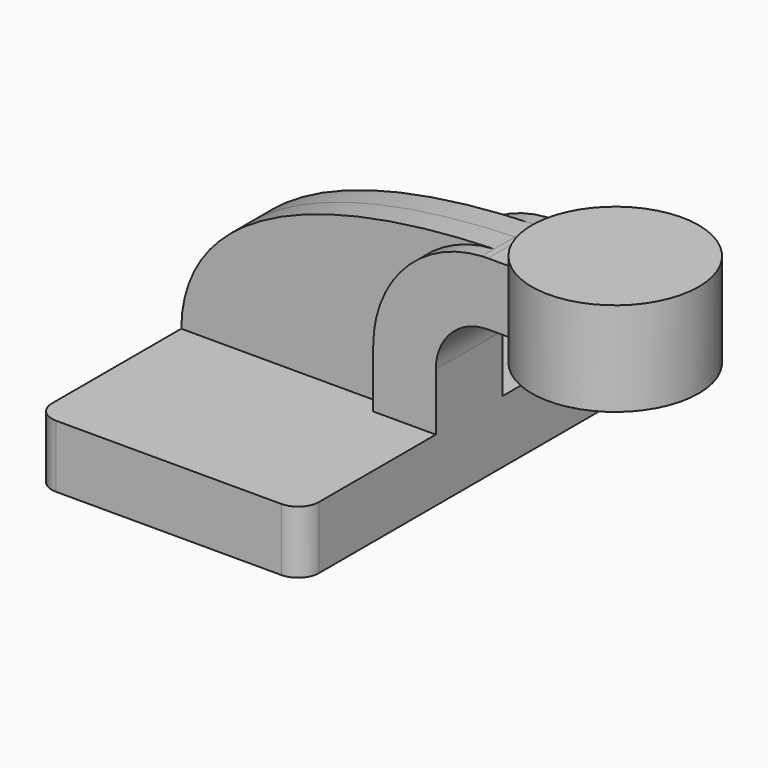
from build123d import *

# Parameters (mm, degrees)
F1_DEPTH = 63.5
F0_W     = 25.4
F0_H     = 19.05
F2_DEPTH = 12.7
F3_DEPTH = 7.9375
F5_R     = 6.35
F6_R     = 6.35
F7_R     = 6.35


with BuildPart() as f1:
    # F0 (on Front) → F1 (new body, symmetric)
    with BuildSketch(Plane.XZ):
        Polygon((40.64, -9.525), (40.64, 9.525), (21.59, 9.525), (-40.64, 9.525), (-40.64, -9.525), align=None)
    extrude(amount=F1_DEPTH, both=True)

    # F0 (on Front) → F2 (join, symmetric)
    with BuildSketch(Plane.XZ):
        with BuildLine():
            Line((21.59, 9.525), (40.64, 9.525))
            Line((40.64, 9.525), (40.64, 27.0002))
            ThreePointArc((40.64, 27.0002), (45.2896798487, 38.2255201513), (56.515, 42.8752))
            Line((56.515, 42.8752), (59.69, 42.8752))
            Line((59.69, 42.8752), (59.69, 61.9252))
            Line((59.69, 61.9252), (56.515, 61.9252))
            add(Edge.make_bspline(
                [(54.6273008741, 61.8741475398), (55.2538493606, 61.8930466239), (55.8830864872, 61.910065703), (56.515, 61.9252)],
                knots=[109.2371612745, 109.2371612745, 109.2371612745, 109.2371612745, 110.3851212122, 110.3851212122, 110.3851212122, 110.3851212122], degree=3))
            ThreePointArc((54.6273008741, 61.8741475398), (31.1606757438, 51.01923134), (21.59, 27.0002))
            Line((21.59, 27.0002), (21.59, 9.525))
        make_face()
        with Locations((72.39, 52.4002)):
            Rectangle(F0_W, F0_H)
    extrude(amount=F2_DEPTH, both=True)

    # F0 (on Front) → F3 (join, symmetric)
    with BuildSketch(Plane.XZ):
        with BuildLine():
            Line((-40.64, 9.525), (21.59, 9.525))
            Line((21.59, 9.525), (21.59, 27.0002))
            ThreePointArc((21.59, 27.0002), (31.1606757438, 51.01923134), (54.6273008741, 61.8741475398))
            add(Edge.make_bspline(
                [(-40.64, 9.525), (-40.2688790692, 41.2539616871), (-4.9935759741, 60.0757552579), (54.6273008741, 61.8741475398)],
                knots=[0, 0, 0, 0, 109.2371612745, 109.2371612745, 109.2371612745, 109.2371612745], degree=3))
        make_face()
    extrude(amount=F3_DEPTH, both=True)

    # F0 (on Front) → F4 (revolve)
    with BuildSketch(Plane.XZ):
        Polygon((85.09, 61.9252), (85.09, 42.8752), (85.09, 38.1), (110.49, 38.1), (110.49, 66.675), (85.09, 66.675), align=None)
    revolve(axis=Axis((85.09, 0, 52.3875), (0, 0, 1)))

    # F5
    f5_edges = [f1.edges().sort_by_distance(p)[0] for p in [
        (40.64, -63.5, 0),
    ]]
    fillet(f5_edges, radius=F5_R)

    # F6
    f6_edges = [f1.edges().sort_by_distance(p)[0] for p in [
        (-40.64, -63.5, 0),
    ]]
    fillet(f6_edges, radius=F6_R)

    # F7
    f7_edges = [f1.edges().sort_by_distance(p)[0] for p in [
        (40.64, 63.5, 0),
        (-40.64, 63.5, 0),
    ]]
    fillet(f7_edges, radius=F7_R)


solid = f1.part
